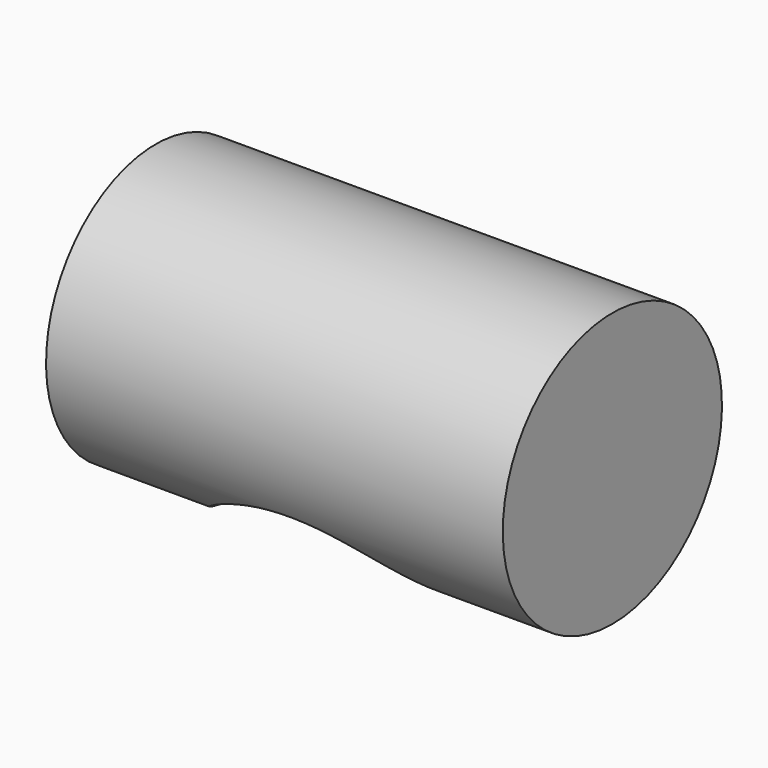
from build123d import *

# Parameters (mm, degrees)
F0_R          = 14.995
F1_DEPTH      = 25
F1_DEPTH_BACK = 25
F2_R          = 15
F3_DEPTH      = 25
F3_DEPTH_BACK = 25
F5_ANGLE      = 30


with BuildPart() as f1:
    # F0 (on Right) → F1 (new body, two sides)
    with BuildSketch(Plane.YZ) as f1_sk:
        Circle(F0_R)
    extrude(amount=F1_DEPTH)
    extrude(f1_sk.sketch, amount=-F1_DEPTH_BACK)

    # F2 (on Front) → F3 (cut, two sides)
    with BuildSketch(Plane.XZ) as f3_sk:
        with Locations((0, -15)):
            Circle(F2_R)
    extrude(amount=-F3_DEPTH, mode=Mode.SUBTRACT)
    extrude(f3_sk.sketch, amount=F3_DEPTH_BACK, mode=Mode.SUBTRACT)


with BuildPart() as f1_1:
    # F5: moved
    add(f1.part.rotate(Axis((31.3068032265, 0, 0), (1, 0, 0)), F5_ANGLE))


solid = f1_1.part
